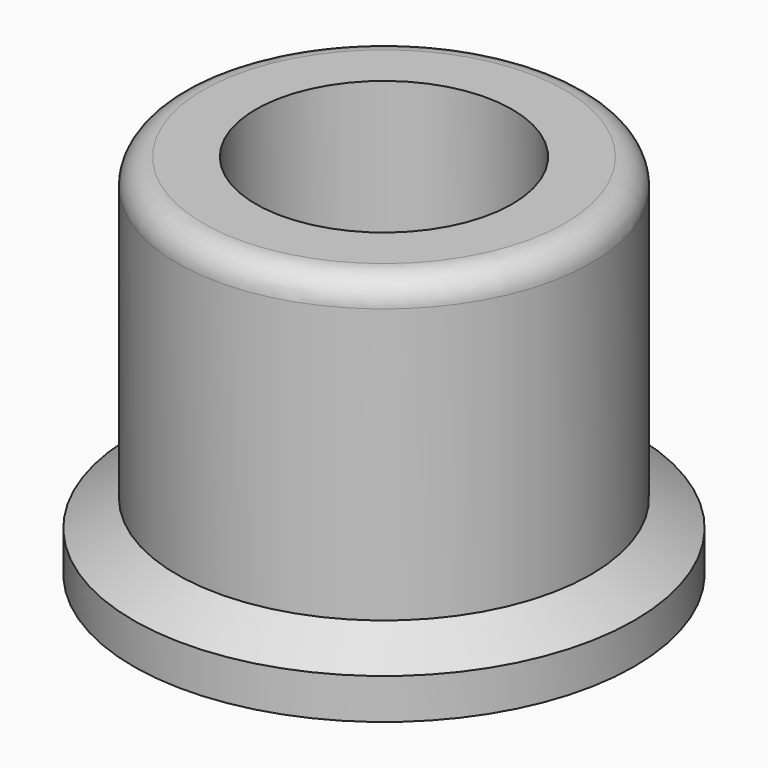
from build123d import *

# Parameters (mm, degrees)
F2_R     = 2.4384
F3_DEPTH = 6.985


with BuildPart() as f1:
    # F0 (on Front) → F1 (revolve)
    with BuildSketch(Plane.XZ):
        with BuildLine():
            Line((0, 6.985), (0, 0))
            Line((0, 0), (4.7625, 0))
            Line((4.7625, 0), (4.7625, 0.77))
            Line((4.7625, 0.77), (3.937, 1.27))
            Line((3.937, 1.27), (3.937, 6.485))
            ThreePointArc((3.937, 6.485), (3.790553, 6.838553), (3.437, 6.985))
            Line((3.437, 6.985), (0, 6.985))
        make_face()
    revolve(axis=Axis((0, 0, 3.4925), (0, 0, -1)))

    # F2 (on face) → F3 (cut, through all)
    with BuildSketch(Plane.XY.offset(6.985)):
        Circle(F2_R)
    extrude(amount=-F3_DEPTH, mode=Mode.SUBTRACT)


solid = f1.part
